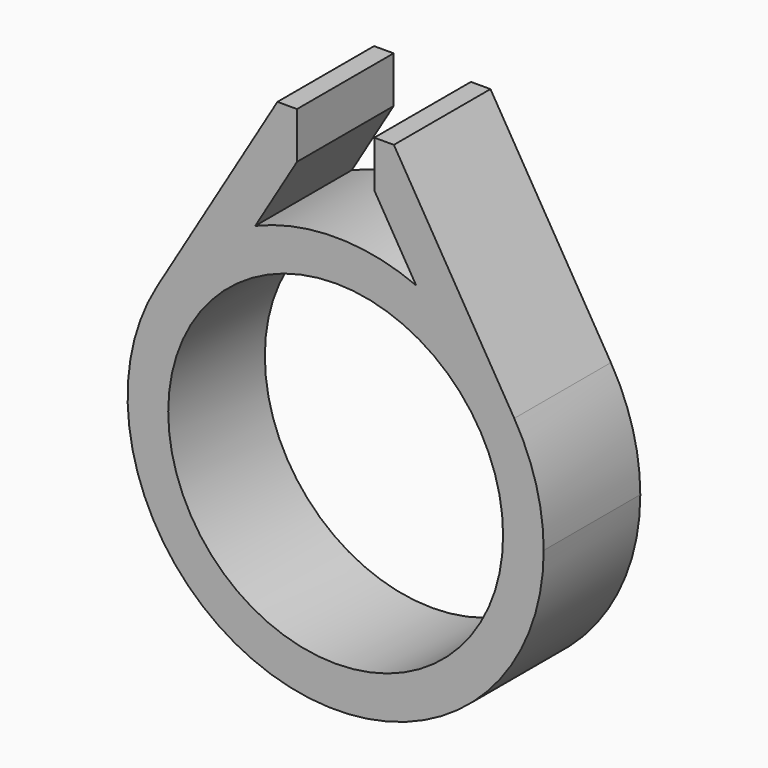
from build123d import *

# Parameters (mm, degrees)
F0_R     = 11.0926010324
F1_DEPTH = 8
F3_DEPTH = 8.001


with BuildPart() as f1:
    # F0 (on Front) → F1 (new body)
    with BuildSketch(Plane.XZ):
        with BuildLine():
            ThreePointArc((-11.8332799586, 7.0663694101), (-3.6651544746, -13.2863363609), (13.7826010324, 0))
            ThreePointArc((13.7826010324, 0), (13.2863363609, 3.6651544746), (11.8332799586, 7.0663694101))
            ThreePointArc((11.8332799586, 7.0663694101), (9.033620179, 10.4093130263), (5.3297729261, 12.7103741792))
            ThreePointArc((5.3297729261, 12.7103741792), (0, 13.7826010324), (-5.3297729261, 12.7103741792))
            ThreePointArc((-5.3297729261, 12.7103741792), (-9.033620179, 10.4093130263), (-11.8332799586, 7.0663694101))
        make_face()
        Circle(F0_R, mode=Mode.SUBTRACT)
        with BuildLine():
            ThreePointArc((5.3297729261, 12.7103741792), (9.033620179, 10.4093130263), (11.8332799586, 7.0663694101))
            Line((11.8332799586, 7.0663694101), (2.8373862151, 22.1308138179))
            Line((2.8373862151, 22.1308138179), (2.5611680947, 22.5933662488))
            Line((2.5611680947, 22.5933662488), (2.5611680947, 17.7217939694))
            Line((2.5611680947, 17.7217939694), (2.5611680947, 17.3466554381))
            Line((2.5611680947, 17.3466554381), (5.3297729261, 12.7103741792))
        make_face()
        with BuildLine():
            Line((-2.5611680947, 22.5933662488), (-11.8332799586, 7.0663694101))
            ThreePointArc((-11.8332799586, 7.0663694101), (-9.033620179, 10.4093130263), (-5.3297729261, 12.7103741792))
            Line((-5.3297729261, 12.7103741792), (-2.5611680947, 17.3466554381))
            Line((-2.5611680947, 17.3466554381), (-2.5611680947, 17.7217939694))
            Line((-2.5611680947, 17.7217939694), (-2.5611680947, 22.5933662488))
        make_face()
    extrude(amount=F1_DEPTH)

    # F2 (on face) → F3 (cut, through all)
    with BuildSketch(Plane.XZ.offset(8)):
        Polygon((2.5611680947, 22.5933662488), (2.5611680947, 20.424362272), (3.8564119667, 20.424362272), align=None)
        Polygon((-2.5611680947, 22.5933662488), (-3.8564119667, 20.424362272), (-2.5611680947, 20.424362272), align=None)
    extrude(amount=-F3_DEPTH, mode=Mode.SUBTRACT)


solid = f1.part
